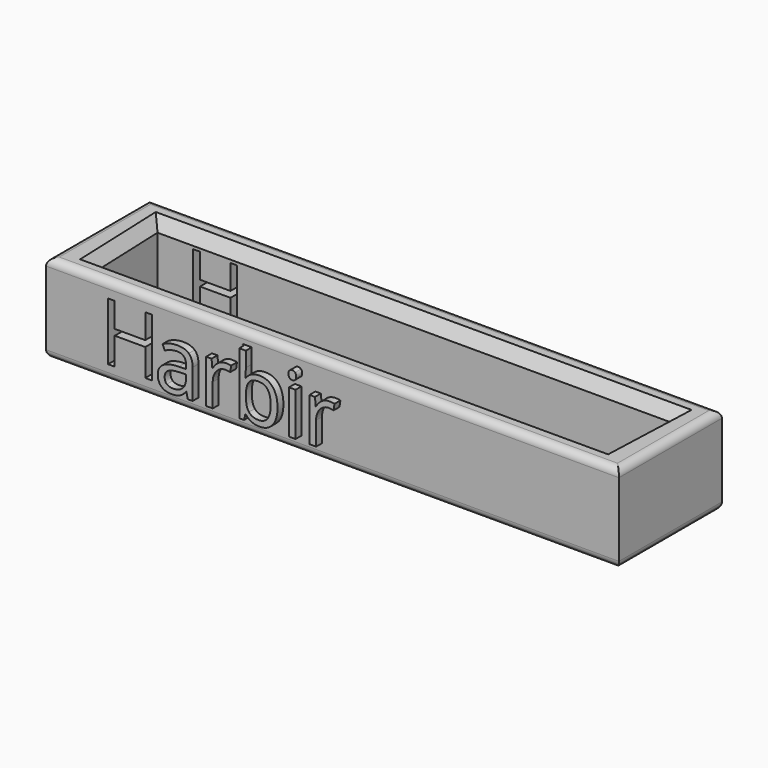
from build123d import *

# Parameters (mm, degrees)
F0_W     = 77.8185501695
F0_H     = 17.4819910899
F1_DEPTH = 12
F2_R     = 1
F3_SIZE2 = 1.7320508076
F3_SIZE  = 1
F4_W     = 0.8938836446
F4_H     = 5.898943127
F5_DEPTH = 1
F6_DEPTH = 17.4819910899
F7_R     = 0.4


with BuildPart() as f1:
    # F0 (on Top) → F1 (new body)
    with BuildSketch(Plane.XY):
        with Locations((2.8177956119, 21.7567770914)):
            Rectangle(F0_W, F0_H)
        Polygon((-32.0822043881, 15.9880314835), (-32.5322043881, 27.4880314835), (38.1677956119, 27.4880314835), (37.7177956119, 15.9880314835), align=None, mode=Mode.SUBTRACT)
    extrude(amount=F1_DEPTH)

    # F2
    f2_edges = [f1.edges().sort_by_distance(p)[0] for p in [
        (2.817796, 13.015782, 12),
        (-36.091479, 21.756777, 12),
        (41.727071, 21.756777, 12),
        (2.817796, 30.497773, 12),
        (2.817796, 13.015782, 0),
        (41.727071, 21.756777, 0),
        (2.817796, 30.497773, 0),
        (-36.091479, 21.756777, 0),
    ]]
    fillet(f2_edges, radius=F2_R)

    # F3
    f3_edges = [f1.edges().sort_by_distance(p)[0] for p in [
        (2.817796, 27.488031, 12),
        (37.942796, 21.738031, 12),
        (2.817796, 15.988031, 12),
        (-32.307204, 21.738031, 12),
    ]]
    f3_side = f1.faces().sort_by_distance((2.817796, 14.789613, 12))[0]
    chamfer(f3_edges, length=F3_SIZE, length2=F3_SIZE2, reference=f3_side)

    # F4 (on face) → F5 (join)
    with BuildSketch(Plane.XZ.offset(-13.0157815465)):
        with BuildLine():
            Line((-16.2303638591, 2.8425179379), (-16.0529649855, 2.0020261873))
            Line((-16.0529649855, 2.0020261873), (-15.3898721085, 2.0020261873))
            Line((-15.3898721085, 2.0020261873), (-15.3898721085, 6.0288083861))
            add(Edge.make_bspline(
                [(-15.8988174206, 7.529809535), (-15.3898721085, 7.0621998828), (-15.3898721085, 6.0288083861)],
                knots=[0, 0, 0, 1, 1, 1], degree=2))
            add(Edge.make_bspline(
                [(-17.4618220594, 7.9974191873), (-16.4077627327, 7.9974191873), (-15.8988174206, 7.529809535)],
                knots=[0, 0, 0, 1, 1, 1], degree=2))
            add(Edge.make_bspline(
                [(-18.5046863115, 7.8630782927), (-17.9854070844, 7.9974191873), (-17.4618220594, 7.9974191873)],
                knots=[0, 0, 0, 1, 1, 1], degree=2))
            add(Edge.make_bspline(
                [(-19.4597122863, 7.4927796731), (-19.0239655386, 7.7287373981), (-18.5046863115, 7.8630782927)],
                knots=[0, 0, 0, 1, 1, 1], degree=2))
            Line((-19.4597122863, 7.4927796731), (-19.1841412205, 6.8090189661))
            add(Edge.make_bspline(
                [(-17.5169362725, 7.2602665863), (-18.2540888735, 7.2602665863), (-19.1841412205, 6.8090189661)],
                knots=[0, 0, 0, 1, 1, 1], degree=2))
            add(Edge.make_bspline(
                [(-16.5610491381, 6.9295813074), (-16.859010353, 7.2602665863), (-17.5169362725, 7.2602665863)],
                knots=[0, 0, 0, 1, 1, 1], degree=2))
            add(Edge.make_bspline(
                [(-16.2630879232, 5.9048014065), (-16.2630879232, 6.5988960284), (-16.5610491381, 6.9295813074)],
                knots=[0, 0, 0, 1, 1, 1], degree=2))
            Line((-16.2630879232, 5.9048014065), (-16.2630879232, 5.5379474251))
            Line((-16.2630879232, 5.5379474251), (-17.2637553558, 5.5052233611))
            add(Edge.make_bspline(
                [(-20.1210828442, 3.6330624329), (-20.1210828442, 5.419107403), (-17.2637553558, 5.5052233611)],
                knots=[0, 0, 0, 1, 1, 1], degree=2))
            add(Edge.make_bspline(
                [(-19.6233326066, 2.3464900195), (-20.1210828442, 2.7994599589), (-20.1210828442, 3.6330624329)],
                knots=[0, 0, 0, 1, 1, 1], degree=2))
            add(Edge.make_bspline(
                [(-18.248921916, 1.8935200801), (-19.1255823691, 1.8935200801), (-19.6233326066, 2.3464900195)],
                knots=[0, 0, 0, 1, 1, 1], degree=2))
            add(Edge.make_bspline(
                [(-17.15266577, 2.0907256241), (-17.5909959965, 1.8935200801), (-18.248921916, 1.8935200801)],
                knots=[0, 0, 0, 1, 1, 1], degree=2))
            add(Edge.make_bspline(
                [(-16.2734218382, 2.8425179379), (-16.7143355434, 2.287931168), (-17.15266577, 2.0907256241)],
                knots=[0, 0, 0, 1, 1, 1], degree=2))
            Line((-16.2734218382, 2.8425179379), (-16.2303638591, 2.8425179379))
        make_face()
        with BuildLine():
            add(Edge.make_bspline(
                [(-18.0715230424, 2.6323950002), (-17.2361982493, 2.6323950002), (-16.7599770012, 3.0896707375)],
                knots=[0, 0, 0, 1, 1, 1], degree=2))
            add(Edge.make_bspline(
                [(-18.8913469631, 2.8847147574), (-18.5985527058, 2.6323950002), (-18.0715230424, 2.6323950002)],
                knots=[0, 0, 0, 1, 1, 1], degree=2))
            add(Edge.make_bspline(
                [(-19.1841412205, 3.6227285179), (-19.1841412205, 3.1370345145), (-18.8913469631, 2.8847147574)],
                knots=[0, 0, 0, 1, 1, 1], degree=2))
            add(Edge.make_bspline(
                [(-18.7139480895, 4.5346965138), (-19.1841412205, 4.2410410968), (-19.1841412205, 3.6227285179)],
                knots=[0, 0, 0, 1, 1, 1], degree=2))
            add(Edge.make_bspline(
                [(-17.1776393978, 4.8662429523), (-18.2437549586, 4.8283519307), (-18.7139480895, 4.5346965138)],
                knots=[0, 0, 0, 1, 1, 1], degree=2))
            Line((-17.1776393978, 4.8662429523), (-16.2837557531, 4.9024116547))
            Line((-16.2837557531, 4.9024116547), (-16.2837557531, 4.3702150339))
            add(Edge.make_bspline(
                [(-16.7599770012, 3.0896707375), (-16.2837557531, 3.5469464748), (-16.2837557531, 4.3702150339)],
                knots=[0, 0, 0, 1, 1, 1], degree=2))
        make_face(mode=Mode.SUBTRACT)
        with BuildLine():
            add(Edge.make_bspline(
                [(-10.8584503955, 8.0094754214), (-10.4657616267, 8.0094754214), (-10.1540218585, 7.9440272933)],
                knots=[0, 0, 0, 1, 1, 1], degree=2))
            add(Edge.make_bspline(
                [(-11.8763410197, 7.6968744937), (-11.4130371654, 8.0094754214), (-10.8584503955, 8.0094754214)],
                knots=[0, 0, 0, 1, 1, 1], degree=2))
            add(Edge.make_bspline(
                [(-12.6668855147, 6.8090189661), (-12.3396448741, 7.3842735659), (-11.8763410197, 7.6968744937)],
                knots=[0, 0, 0, 1, 1, 1], degree=2))
            Line((-12.6668855147, 6.8090189661), (-12.7099434937, 6.8090189661))
            Line((-12.7099434937, 6.8090189661), (-12.8132826434, 7.9009693143))
            Line((-12.8132826434, 7.9009693143), (-13.5504352444, 7.9009693143))
            Line((-13.5504352444, 7.9009693143), (-13.5504352444, 2.0020261873))
            Line((-13.5504352444, 2.0020261873), (-12.6565515997, 2.0020261873))
            Line((-12.6565515997, 2.0020261873), (-12.6565515997, 5.1676488055))
            add(Edge.make_bspline(
                [(-12.1484674472, 6.6152580604), (-12.6565515997, 6.0339753435), (-12.6565515997, 5.1676488055)],
                knots=[0, 0, 0, 1, 1, 1], degree=2))
            add(Edge.make_bspline(
                [(-10.9238985236, 7.1965407773), (-11.6403832946, 7.1965407773), (-12.1484674472, 6.6152580604)],
                knots=[0, 0, 0, 1, 1, 1], degree=2))
            add(Edge.make_bspline(
                [(-10.2780288382, 7.1155917768), (-10.6431605003, 7.1965407773), (-10.9238985236, 7.1965407773)],
                knots=[0, 0, 0, 1, 1, 1], degree=2))
            Line((-10.2780288382, 7.1155917768), (-10.1540218585, 7.9440272933))
        make_face()
        with BuildLine():
            add(Edge.make_bspline(
                [(-6.3046385333, 7.9974191873), (-5.1420730996, 7.9974191873), (-4.4987868929, 7.203430054)],
                knots=[0, 0, 0, 1, 1, 1], degree=2))
            add(Edge.make_bspline(
                [(-8.1561316316, 7.1155917768), (-7.5326520953, 7.9974191873), (-6.3046385333, 7.9974191873)],
                knots=[0, 0, 0, 1, 1, 1], degree=2))
            Line((-8.1561316316, 7.1155917768), (-8.1991896106, 7.1155917768))
            add(Edge.make_bspline(
                [(-8.1561316316, 8.3418830195), (-8.1561316316, 7.6581223125), (-8.1991896106, 7.1155917768)],
                knots=[0, 0, 0, 1, 1, 1], degree=2))
            Line((-8.1561316316, 8.3418830195), (-8.1561316316, 10.377664268))
            Line((-8.1561316316, 10.377664268), (-9.0500152762, 10.377664268))
            Line((-9.0500152762, 10.377664268), (-9.0500152762, 2.0020261873))
            Line((-9.0500152762, 2.0020261873), (-8.4093125483, 2.0020261873))
            Line((-8.4093125483, 2.0020261873), (-8.2215797597, 2.7615689373))
            Line((-8.2215797597, 2.7615689373), (-8.1561316316, 2.7615689373))
            add(Edge.make_bspline(
                [(-7.3578367004, 2.1062264965), (-7.8340579485, 2.3189329129), (-8.1561316316, 2.7615689373)],
                knots=[0, 0, 0, 1, 1, 1], degree=2))
            add(Edge.make_bspline(
                [(-6.3046385333, 1.8935200801), (-6.8816154523, 1.8935200801), (-7.3578367004, 2.1062264965)],
                knots=[0, 0, 0, 1, 1, 1], degree=2))
            add(Edge.make_bspline(
                [(-4.5039538503, 2.6987042879), (-5.1524070145, 1.8935200801), (-6.3046385333, 1.8935200801)],
                knots=[0, 0, 0, 1, 1, 1], degree=2))
            add(Edge.make_bspline(
                [(-3.8555006862, 4.9575258678), (-3.8555006862, 3.5038884958), (-4.5039538503, 2.6987042879)],
                knots=[0, 0, 0, 1, 1, 1], degree=2))
            add(Edge.make_bspline(
                [(-4.4987868929, 7.203430054), (-3.8555006862, 6.4094409207), (-3.8555006862, 4.9575258678)],
                knots=[0, 0, 0, 1, 1, 1], degree=2))
        make_face()
        with BuildLine():
            add(Edge.make_bspline(
                [(-6.4338124704, 7.2499326713), (-7.348363945, 7.2499326713), (-7.7522477883, 6.7254864868)],
                knots=[0, 0, 0, 1, 1, 1], degree=2))
            add(Edge.make_bspline(
                [(-5.1859922382, 6.6850119865), (-5.5898760815, 7.2499326713), (-6.4338124704, 7.2499326713)],
                knots=[0, 0, 0, 1, 1, 1], degree=2))
            add(Edge.make_bspline(
                [(-4.7821083949, 4.9678597828), (-4.7821083949, 6.1200913016), (-5.1859922382, 6.6850119865)],
                knots=[0, 0, 0, 1, 1, 1], degree=2))
            add(Edge.make_bspline(
                [(-5.1859922382, 3.2429571429), (-4.7821083949, 3.8431853705), (-4.7821083949, 4.9678597828)],
                knots=[0, 0, 0, 1, 1, 1], degree=2))
            add(Edge.make_bspline(
                [(-6.4131446405, 2.6427289152), (-5.5898760815, 2.6427289152), (-5.1859922382, 3.2429571429)],
                knots=[0, 0, 0, 1, 1, 1], degree=2))
            add(Edge.make_bspline(
                [(-7.7419138733, 3.1783701743), (-7.3276961151, 2.6427289152), (-6.4131446405, 2.6427289152)],
                knots=[0, 0, 0, 1, 1, 1], degree=2))
            add(Edge.make_bspline(
                [(-8.1561316316, 4.9575258678), (-8.1561316316, 3.7140114335), (-7.7419138733, 3.1783701743)],
                knots=[0, 0, 0, 1, 1, 1], degree=2))
            add(Edge.make_bspline(
                [(-7.7522477883, 6.7254864868), (-8.1561316316, 6.2010403022), (-8.1561316316, 4.9575258678)],
                knots=[0, 0, 0, 1, 1, 1], degree=2))
        make_face(mode=Mode.SUBTRACT)
        with BuildLine():
            add(Edge.make_bspline(
                [(-2.3708615692, 9.4992814958), (-2.3708615692, 9.8058543065), (-2.2201586426, 9.9488067969)],
                knots=[0, 0, 0, 1, 1, 1], degree=2))
            add(Edge.make_bspline(
                [(-2.2201586426, 9.0497561948), (-2.3708615692, 9.1978756426), (-2.3708615692, 9.4992814958)],
                knots=[0, 0, 0, 1, 1, 1], degree=2))
            add(Edge.make_bspline(
                [(-1.8421095868, 8.9016367469), (-2.069455716, 8.9016367469), (-2.2201586426, 9.0497561948)],
                knots=[0, 0, 0, 1, 1, 1], degree=2))
            add(Edge.make_bspline(
                [(-1.4709498075, 9.0497561948), (-1.6268196916, 8.9016367469), (-1.8421095868, 8.9016367469)],
                knots=[0, 0, 0, 1, 1, 1], degree=2))
            add(Edge.make_bspline(
                [(-1.3150799234, 9.4992814958), (-1.3150799234, 9.1978756426), (-1.4709498075, 9.0497561948)],
                knots=[0, 0, 0, 1, 1, 1], degree=2))
            add(Edge.make_bspline(
                [(-1.4709498075, 9.9462233181), (-1.3150799234, 9.800687349), (-1.3150799234, 9.4992814958)],
                knots=[0, 0, 0, 1, 1, 1], degree=2))
            add(Edge.make_bspline(
                [(-1.8421095868, 10.0917592873), (-1.6268196916, 10.0917592873), (-1.4709498075, 9.9462233181)],
                knots=[0, 0, 0, 1, 1, 1], degree=2))
            add(Edge.make_bspline(
                [(-2.2201586426, 9.9488067969), (-2.069455716, 10.0917592873), (-1.8421095868, 10.0917592873)],
                knots=[0, 0, 0, 1, 1, 1], degree=2))
        make_face()
        with Locations((-1.8481377038, 4.9514977508)):
            Rectangle(F4_W, F4_H)
        with BuildLine():
            add(Edge.make_bspline(
                [(3.1853400447, 8.0094754214), (3.5780288134, 8.0094754214), (3.8897685816, 7.9440272933)],
                knots=[0, 0, 0, 1, 1, 1], degree=2))
            add(Edge.make_bspline(
                [(2.1674494204, 7.6968744937), (2.6307532748, 8.0094754214), (3.1853400447, 8.0094754214)],
                knots=[0, 0, 0, 1, 1, 1], degree=2))
            add(Edge.make_bspline(
                [(1.3769049255, 6.8090189661), (1.7041455661, 7.3842735659), (2.1674494204, 7.6968744937)],
                knots=[0, 0, 0, 1, 1, 1], degree=2))
            Line((1.3769049255, 6.8090189661), (1.3338469464, 6.8090189661))
            Line((1.3338469464, 6.8090189661), (1.2305077968, 7.9009693143))
            Line((1.2305077968, 7.9009693143), (0.4933551958, 7.9009693143))
            Line((0.4933551958, 7.9009693143), (0.4933551958, 2.0020261873))
            Line((0.4933551958, 2.0020261873), (1.3872388404, 2.0020261873))
            Line((1.3872388404, 2.0020261873), (1.3872388404, 5.1676488055))
            add(Edge.make_bspline(
                [(1.895322993, 6.6152580604), (1.3872388404, 6.0339753435), (1.3872388404, 5.1676488055)],
                knots=[0, 0, 0, 1, 1, 1], degree=2))
            add(Edge.make_bspline(
                [(3.1198919166, 7.1965407773), (2.4034071455, 7.1965407773), (1.895322993, 6.6152580604)],
                knots=[0, 0, 0, 1, 1, 1], degree=2))
            add(Edge.make_bspline(
                [(3.765761602, 7.1155917768), (3.4006299398, 7.1965407773), (3.1198919166, 7.1965407773)],
                knots=[0, 0, 0, 1, 1, 1], degree=2))
            Line((3.765761602, 7.1155917768), (3.8897685816, 7.9440272933))
        make_face()
    extrude(amount=F5_DEPTH)

    # F4 (on face) → F6 (cut, through all)
    with BuildSketch(Plane.XZ.offset(-13.0157815465)):
        Polygon((-22.6184456279, 2.0020261873), (-21.7038941533, 2.0020261873), (-21.7038941533, 9.8713024346), (-22.6184456279, 9.8713024346), (-22.6184456279, 6.5231139853), (-26.7640678488, 6.5231139853), (-26.7640678488, 9.8713024346), (-27.6786193234, 9.8713024346), (-27.6786193234, 2.0020261873), (-26.7640678488, 2.0020261873), (-26.7640678488, 5.7050123838), (-22.6184456279, 5.7050123838), align=None)
    extrude(amount=-F6_DEPTH, mode=Mode.SUBTRACT)

    # F7
    f7_edges = [f1.edges().sort_by_distance(p)[0] for p in [
        (-9.050015, 13.015782, 6.189845),
    ]]
    fillet(f7_edges, radius=F7_R)


solid = f1.part
